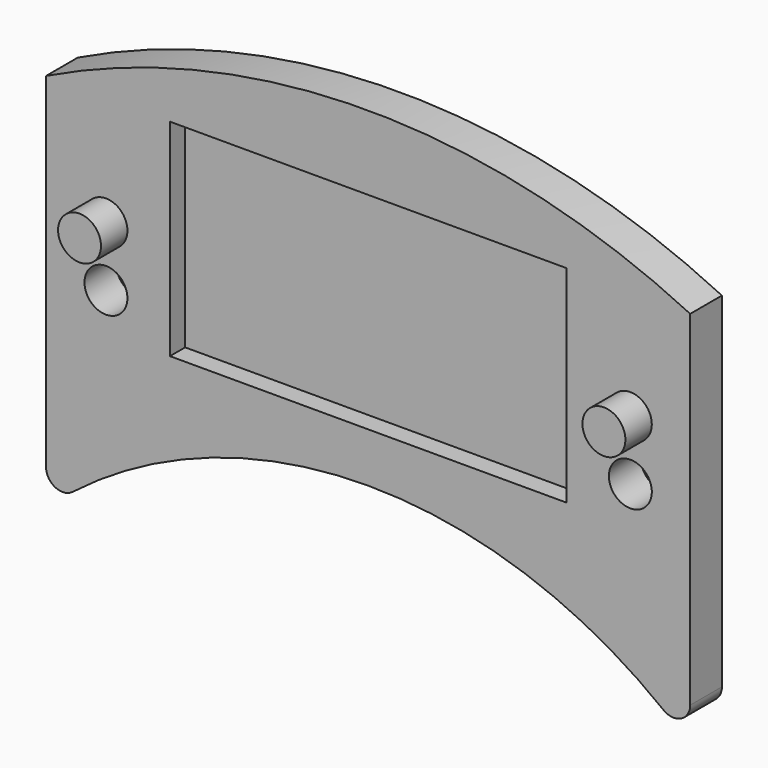
from build123d import *

# Parameters (mm, degrees)
F1_DEPTH = 4.8
F2_R     = 2.6
F3_DEPTH = 4
F4_R     = 2.6
F5_DEPTH = 4.8
F6_R     = 2
F7_W     = 48
F7_H     = 2.3
F8_DEPTH = 25


with BuildPart() as f1:
    # F0 (on Front) → F1 (new body)
    with BuildSketch(Plane.XZ):
        with BuildLine():
            Line((-39, 0), (-39, -46))
            ThreePointArc((-39, -46), (0, -31), (39, -46))
            Line((39, -46), (39, 0))
            ThreePointArc((39, 0), (0, 9), (-39, 0))
        make_face()
    extrude(amount=-F1_DEPTH)

    # F2 (on face) → F3 (join)
    with BuildSketch(Plane.XZ):
        with Locations((-31.75, -13.3)):
            Circle(F2_R)
        with Locations((31.75, -13.3)):
            Circle(F2_R)
    extrude(amount=F3_DEPTH)

    # F4 (on face) → F5 (cut, through all)
    with BuildSketch(Plane(origin=(0, 4.8, 0), x_dir=(-1, 0, 0), z_dir=(0, 1, 0))):
        with Locations((-31.75, -20.5)):
            Circle(F4_R)
        with Locations((31.75, -20.5)):
            Circle(F4_R)
    extrude(amount=-F5_DEPTH, mode=Mode.SUBTRACT)

    # F6
    f6_edges = [f1.edges().sort_by_distance(p)[0] for p in [
        (-39, 2.4, -46),
        (39, 2.4, -46),
    ]]
    fillet(f6_edges, radius=F6_R)

    # F7 (on Top) → F8 (cut)
    with BuildSketch(Plane.XY):
        with Locations((0, 1.15)):
            Rectangle(F7_W, F7_H)
    extrude(amount=-F8_DEPTH, mode=Mode.SUBTRACT)


solid = f1.part
